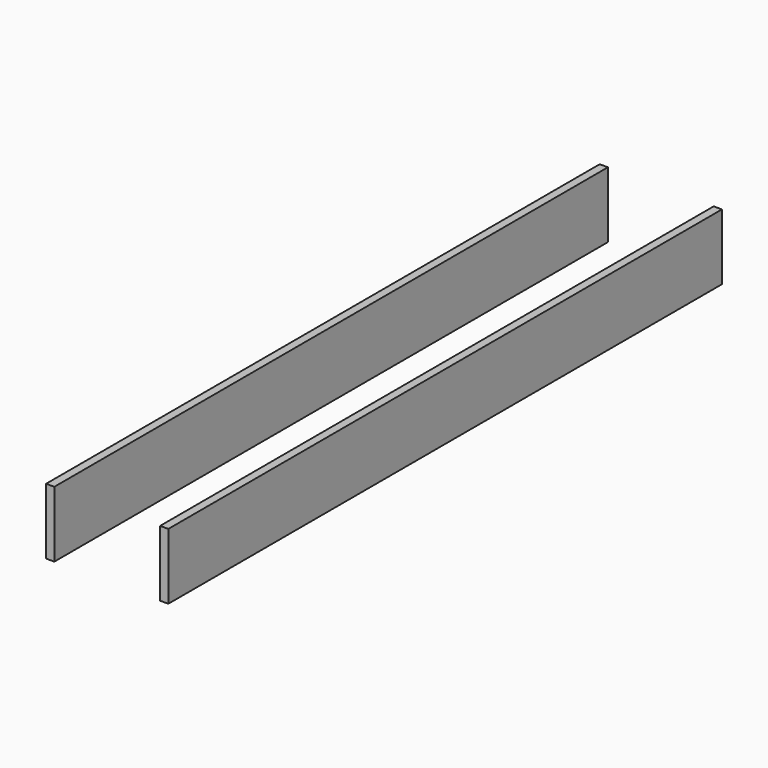
from build123d import *

# Parameters (mm, degrees)
F0_W     = 25
F0_H     = 2100
F1_DEPTH = 200


with BuildPart() as f1:
    # F0 (on Top) → F1 (new body)
    with BuildSketch(Plane.XY):
        with Locations((12.5, 1050)):
            Rectangle(F0_W, F0_H)
    extrude(amount=F1_DEPTH)


with BuildPart() as f2_1:
    # F2: copy of F1
    add(f1.part.moved(Location((346, 0, 0))))


solid = Compound([f1.part, f2_1.part])
